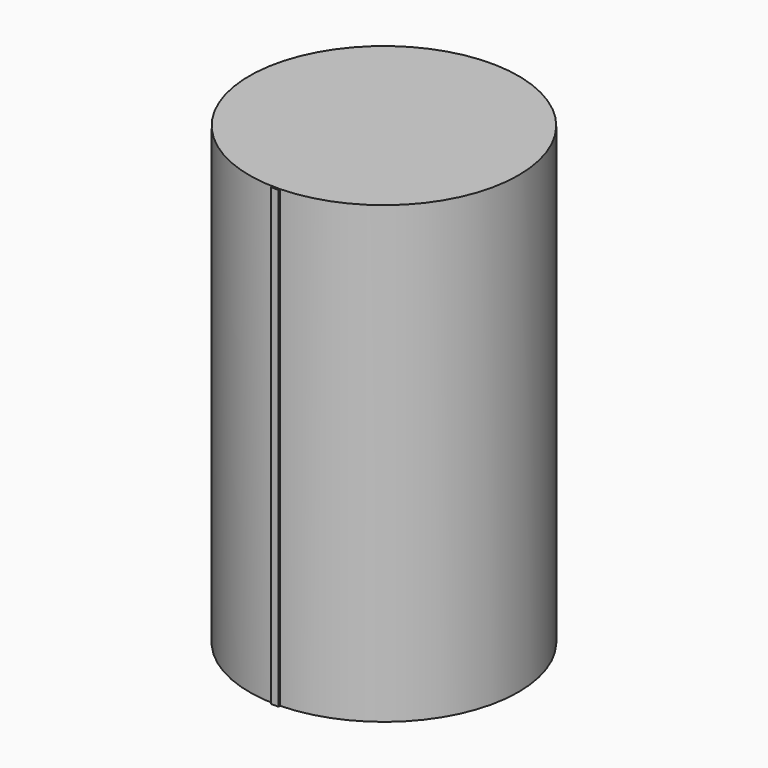
from build123d import *

# Parameters (mm, degrees)
F0_R     = 225.425
F1_DEPTH = 762
F2_W     = 12.7
F2_H     = 2.54
F3_DEPTH = 762


with BuildPart() as f1:
    # F0 (on Top) → F1 (new body)
    with BuildSketch(Plane.XY):
        Circle(F0_R)
    extrude(amount=F1_DEPTH)


with BuildPart() as f3:
    # F2 (on face) → F3 (new body)
    with BuildSketch(Plane.XY.offset(762)):
        with Locations((0, -227.33)):
            Rectangle(F2_W, F2_H)
    extrude(amount=-F3_DEPTH)


solid = Compound([f1.part, f3.part])
